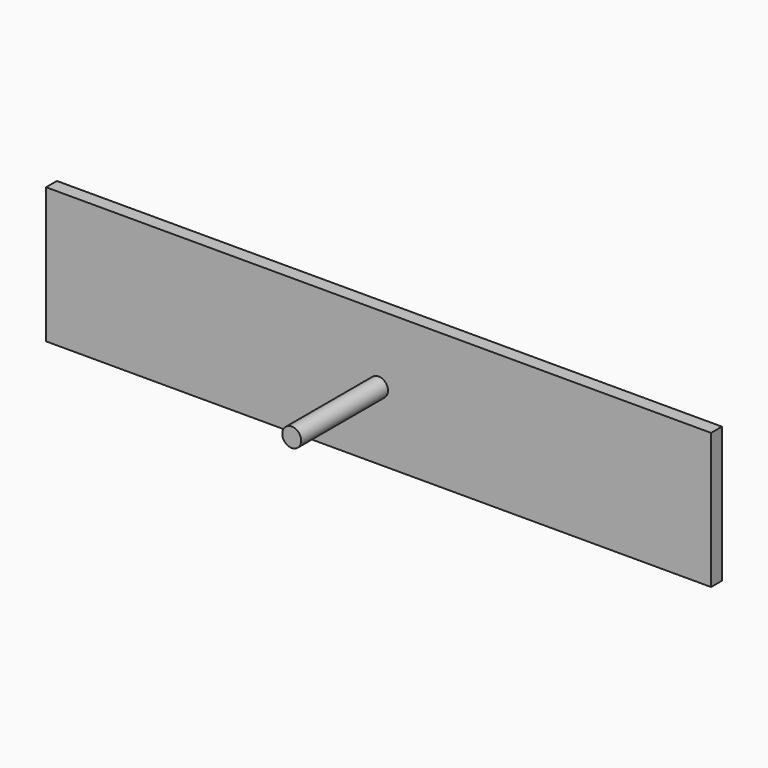
from build123d import *

# Parameters (mm, degrees)
F0_W     = 77.7875
F0_H     = 31.75
F1_DEPTH = 3.175
F3_R     = 2.2098
F4_DEPTH = 25.4


with BuildPart() as f1:
    # F0 (on Front) → F1 (new body)
    with BuildSketch(Plane.XZ):
        with Locations((-0.282224, 31.94195)):
            Rectangle(F0_W, F0_H)
        with Locations((77.505276, 31.94195)):
            Rectangle(F0_W, F0_H)
    extrude(amount=F1_DEPTH)

    # F3 (on face) → F4 (join)
    with BuildSketch(Plane.XZ.offset(3.175)):
        with Locations((38.613036, 31.945616)):
            Circle(F3_R)
    extrude(amount=F4_DEPTH)


solid = f1.part
